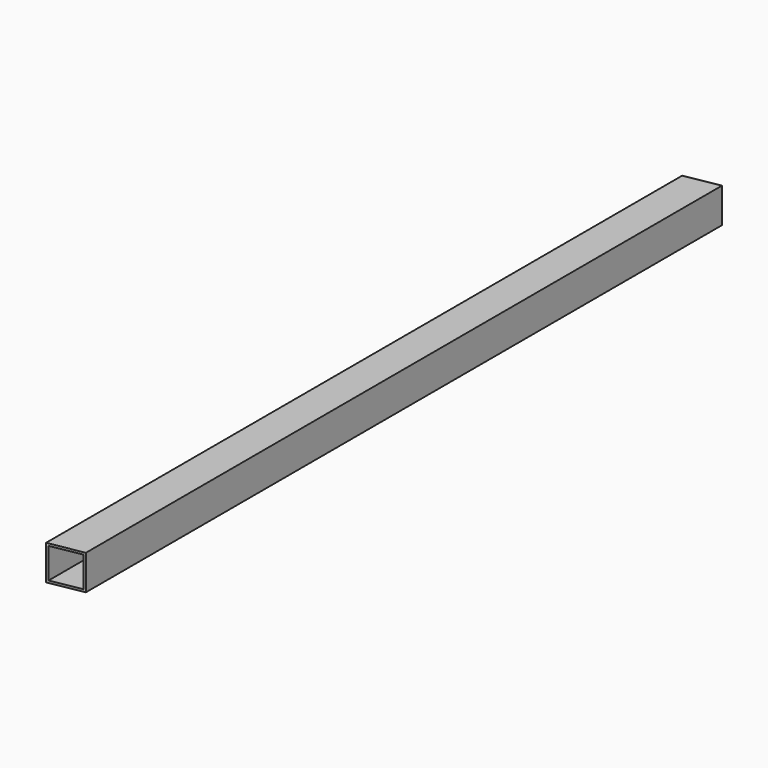
from build123d import *

# Parameters (mm, degrees)
F0_W     = 25.4
F0_H     = 25.4
F0_W_2   = 22.225
F0_H_2   = 22.225
F1_DEPTH = 292.1
F3_DEPTH = 25.401
F5_DEPTH = 25.401


with BuildPart() as f1:
    # F0 (on Front) → F1 (new body, symmetric)
    with BuildSketch(Plane.XZ):
        Rectangle(F0_W, F0_H)
        Rectangle(F0_W_2, F0_H_2, mode=Mode.SUBTRACT)
    extrude(amount=F1_DEPTH, both=True)

    # F2 (on face) → F3 (cut, through all)
    with BuildSketch(Plane.XY.offset(12.7)):
        Polygon((12.7, 292.1), (-12.7, 292.1), (-12.7, 287.621295), align=None)
    extrude(amount=-F3_DEPTH, mode=Mode.SUBTRACT)

    # F4 (on face) → F5 (cut, through all)
    with BuildSketch(Plane.XY.offset(12.7)):
        Polygon((12.7, -287.621295), (-12.7, -292.1), (12.7, -292.1), align=None)
    extrude(amount=-F5_DEPTH, mode=Mode.SUBTRACT)


solid = f1.part
